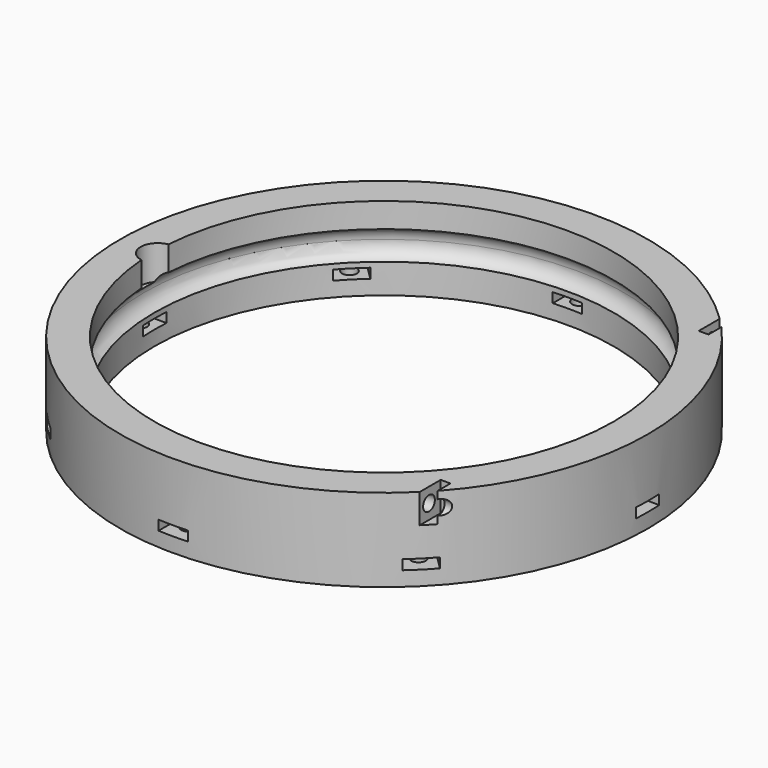
from build123d import *

# Parameters (mm, degrees)
BOX174_W                    = 2
BOX174_H                    = 6
BOX174_DEPTH                = 6
BOX175_W                    = 2
BOX175_H                    = 6
BOX175_DEPTH                = 6
BOX176_W                    = 2
BOX176_H                    = 6
BOX176_DEPTH                = 6
BOX173_W                    = 2
BOX173_H                    = 6
BOX173_DEPTH                = 6
CYLINDER397_R               = 1.5
CYLINDER397_DEPTH           = 100
CYLINDER398_R               = 1.5
CYLINDER398_DEPTH           = 100
CYLINDER395_R               = 1.5
CYLINDER395_DEPTH           = 100
CYLINDER396_R               = 1.5
CYLINDER396_DEPTH           = 100
CYLINDER375_R               = 1.5
CYLINDER375_DEPTH           = 50
CYLINDER375_PLACEMENT_ANGLE = 45
CYLINDER376_R               = 1.5
CYLINDER376_DEPTH           = 50
CYLINDER377_R               = 1.5
CYLINDER377_DEPTH           = 50
CYLINDER377_PLACEMENT_ANGLE = 135
CYLINDER378_R               = 1.5
CYLINDER378_DEPTH           = 50
CYLINDER379_R               = 1.5
CYLINDER379_DEPTH           = 50
CYLINDER379_PLACEMENT_ANGLE = 225
CYLINDER380_R               = 1.5
CYLINDER380_DEPTH           = 50
CYLINDER381_R               = 1.5
CYLINDER381_DEPTH           = 50
CYLINDER381_PLACEMENT_ANGLE = 45
CYLINDER374_R               = 1.5
CYLINDER374_DEPTH           = 50
BOX158_W                    = 8
BOX158_H                    = 6
BOX158_DEPTH                = 2
BOX158_PLACEMENT_ANGLE      = 45
BOX159_W                    = 8
BOX159_H                    = 6
BOX159_DEPTH                = 2
BOX160_W                    = 8
BOX160_H                    = 6
BOX160_DEPTH                = 2
BOX160_PLACEMENT_ANGLE      = 135
BOX161_W                    = 8
BOX161_H                    = 6
BOX161_DEPTH                = 2
BOX162_W                    = 8
BOX162_H                    = 6
BOX162_DEPTH                = 2
BOX162_PLACEMENT_ANGLE      = 225
BOX163_W                    = 8
BOX163_H                    = 6
BOX163_DEPTH                = 2
BOX164_W                    = 8
BOX164_H                    = 6
BOX164_DEPTH                = 2
BOX164_PLACEMENT_ANGLE      = 45
BOX157_W                    = 8
BOX157_H                    = 6
BOX157_DEPTH                = 2
CYLINDER006_R               = 3.5
CYLINDER006_DEPTH           = 10
TORUS004_R                  = 3.1
TUBE002_R                   = 54
TUBE002_R_2                 = 47
TUBE002_DEPTH               = 17


with BuildPart() as krychle174:
    # Box174 → Box174 (new body)
    with BuildSketch(Plane(origin=(32, -54, 22), x_dir=(1, 0, 0), z_dir=(0, 0, 1))):
        with Locations((1, 3)):
            Rectangle(BOX174_W, BOX174_H)
    extrude(amount=BOX174_DEPTH)


with BuildPart() as krychle175:
    # Box175 → Box175 (new body)
    with BuildSketch(Plane(origin=(38, 33, 31), x_dir=(1, 0, 0), z_dir=(0, 0, 1))):
        with Locations((1, 3)):
            Rectangle(BOX175_W, BOX175_H)
    extrude(amount=BOX175_DEPTH)


with BuildPart() as krychle176:
    # Box176 → Box176 (new body)
    with BuildSketch(Plane(origin=(38, -39, 31), x_dir=(1, 0, 0), z_dir=(0, 0, 1))):
        with Locations((1, 3)):
            Rectangle(BOX176_W, BOX176_H)
    extrude(amount=BOX176_DEPTH)


with BuildPart() as compound302:
    # Box173 → Box173 (new body)
    with BuildSketch(Plane(origin=(32, 48, 22), x_dir=(1, 0, 0), z_dir=(0, 0, 1))):
        with Locations((1, 3)):
            Rectangle(BOX173_W, BOX173_H)
    extrude(amount=BOX173_DEPTH)

    # Compound302: union Krychle174, Krychle175, Krychle176
    add(krychle174.part)
    add(krychle175.part)
    add(krychle176.part)


with BuildPart() as obj1:
    # Cylinder397 → Cylinder397 (new body)
    with BuildSketch(Plane(origin=(24, -51, 25), x_dir=(0, 0, -1), z_dir=(1, 0, 0))):
        Circle(CYLINDER397_R)
    extrude(amount=CYLINDER397_DEPTH)


with BuildPart() as obj2:
    # Cylinder398 → Cylinder398 (new body)
    with BuildSketch(Plane(origin=(34, 36, 34), x_dir=(0, 0, -1), z_dir=(1, 0, 0))):
        Circle(CYLINDER398_R)
    extrude(amount=CYLINDER398_DEPTH)


with BuildPart() as obj3:
    # Cylinder395 → Cylinder395 (new body)
    with BuildSketch(Plane(origin=(34, -36, 34), x_dir=(0, 0, -1), z_dir=(1, 0, 0))):
        Circle(CYLINDER395_R)
    extrude(amount=CYLINDER395_DEPTH)


with BuildPart() as compound303:
    # Cylinder396 → Cylinder396 (new body)
    with BuildSketch(Plane(origin=(24, 51, 25), x_dir=(0, 0, -1), z_dir=(1, 0, 0))):
        Circle(CYLINDER396_R)
    extrude(amount=CYLINDER396_DEPTH)

    # Compound303: union obj1, obj2, obj3
    add(obj1.part)
    add(obj2.part)
    add(obj3.part)


with BuildPart() as obj4:
    # Cylinder375 → Cylinder375 (new body)
    with BuildSketch(Plane.XY):
        Circle(CYLINDER375_R)
    extrude(amount=CYLINDER375_DEPTH)


with BuildPart() as obj4_1:
    # Cylinder375 placement: moved
    add(obj4.part.moved(Location((35.355339, 35.355339, -15))).rotate(Axis((35.355339, 35.355339, -15), (0, 0, 1)), CYLINDER375_PLACEMENT_ANGLE))


with BuildPart() as obj5:
    # Cylinder376 → Cylinder376 (new body)
    with BuildSketch(Plane(origin=(0, 50, -15), x_dir=(0, 1, 0), z_dir=(0, 0, 1))):
        Circle(CYLINDER376_R)
    extrude(amount=CYLINDER376_DEPTH)


with BuildPart() as obj6:
    # Cylinder377 → Cylinder377 (new body)
    with BuildSketch(Plane.XY):
        Circle(CYLINDER377_R)
    extrude(amount=CYLINDER377_DEPTH)


with BuildPart() as obj6_1:
    # Cylinder377 placement: moved
    add(obj6.part.moved(Location((-35.355339, 35.355339, -15))).rotate(Axis((-35.355339, 35.355339, -15), (0, 0, 1)), CYLINDER377_PLACEMENT_ANGLE))


with BuildPart() as obj7:
    # Cylinder378 → Cylinder378 (new body)
    with BuildSketch(Plane(origin=(-50, 0, -15), x_dir=(-1, 0, 0), z_dir=(0, 0, 1))):
        Circle(CYLINDER378_R)
    extrude(amount=CYLINDER378_DEPTH)


with BuildPart() as obj8:
    # Cylinder379 → Cylinder379 (new body)
    with BuildSketch(Plane.XY):
        Circle(CYLINDER379_R)
    extrude(amount=CYLINDER379_DEPTH)


with BuildPart() as obj8_1:
    # Cylinder379 placement: moved
    add(obj8.part.moved(Location((-35.355339, -35.355339, -15))).rotate(Axis((-35.355339, -35.355339, -15), (0, 0, 1)), CYLINDER379_PLACEMENT_ANGLE))


with BuildPart() as obj9:
    # Cylinder380 → Cylinder380 (new body)
    with BuildSketch(Plane(origin=(0, -50, -15), x_dir=(0, -1, 0), z_dir=(0, 0, 1))):
        Circle(CYLINDER380_R)
    extrude(amount=CYLINDER380_DEPTH)


with BuildPart() as obj10:
    # Cylinder381 → Cylinder381 (new body)
    with BuildSketch(Plane.XY):
        Circle(CYLINDER381_R)
    extrude(amount=CYLINDER381_DEPTH)


with BuildPart() as obj10_1:
    # Cylinder381 placement: moved
    add(obj10.part.moved(Location((35.355339, -35.355339, -15))).rotate(Axis((35.355339, -35.355339, -15), (0, 0, -1)), CYLINDER381_PLACEMENT_ANGLE))


with BuildPart() as compound298:
    # Cylinder374 → Cylinder374 (new body)
    with BuildSketch(Plane(origin=(50, 0, -15), x_dir=(1, 0, 0), z_dir=(0, 0, 1))):
        Circle(CYLINDER374_R)
    extrude(amount=CYLINDER374_DEPTH)

    # Compound298: union obj4, obj5, obj6, obj7, obj8, obj9, obj10
    add(obj4_1.part)
    add(obj5.part)
    add(obj6_1.part)
    add(obj7.part)
    add(obj8_1.part)
    add(obj9.part)
    add(obj10_1.part)


with BuildPart() as compound298_1:
    # Compound298 placement: moved
    add(compound298.part.moved(Location((0, 0, -9))))


with BuildPart() as krychle158:
    # Box158 → Box158 (new body)
    with BuildSketch(Plane.XY):
        with Locations((4, 3)):
            Rectangle(BOX158_W, BOX158_H)
    extrude(amount=BOX158_DEPTH)


with BuildPart() as krychle158_1:
    # Box158 placement: moved
    add(krychle158.part.moved(Location((34.648232, 30.405592, 23))).rotate(Axis((34.648232, 30.405592, 23), (0, 0, 1)), BOX158_PLACEMENT_ANGLE))


with BuildPart() as krychle159:
    # Box159 → Box159 (new body)
    with BuildSketch(Plane(origin=(3, 46, 23), x_dir=(0, 1, 0), z_dir=(0, 0, 1))):
        with Locations((4, 3)):
            Rectangle(BOX159_W, BOX159_H)
    extrude(amount=BOX159_DEPTH)


with BuildPart() as krychle160:
    # Box160 → Box160 (new body)
    with BuildSketch(Plane.XY):
        with Locations((4, 3)):
            Rectangle(BOX160_W, BOX160_H)
    extrude(amount=BOX160_DEPTH)


with BuildPart() as krychle160_1:
    # Box160 placement: moved
    add(krychle160.part.moved(Location((-30.405592, 34.648232, 23))).rotate(Axis((-30.405592, 34.648232, 23), (0, 0, 1)), BOX160_PLACEMENT_ANGLE))


with BuildPart() as krychle161:
    # Box161 → Box161 (new body)
    with BuildSketch(Plane(origin=(-46, 3, 23), x_dir=(-1, 0, 0), z_dir=(0, 0, 1))):
        with Locations((4, 3)):
            Rectangle(BOX161_W, BOX161_H)
    extrude(amount=BOX161_DEPTH)


with BuildPart() as krychle162:
    # Box162 → Box162 (new body)
    with BuildSketch(Plane.XY):
        with Locations((4, 3)):
            Rectangle(BOX162_W, BOX162_H)
    extrude(amount=BOX162_DEPTH)


with BuildPart() as krychle162_1:
    # Box162 placement: moved
    add(krychle162.part.moved(Location((-34.648232, -30.405592, 23))).rotate(Axis((-34.648232, -30.405592, 23), (0, 0, 1)), BOX162_PLACEMENT_ANGLE))


with BuildPart() as krychle163:
    # Box163 → Box163 (new body)
    with BuildSketch(Plane(origin=(-3, -46, 23), x_dir=(0, -1, 0), z_dir=(0, 0, 1))):
        with Locations((4, 3)):
            Rectangle(BOX163_W, BOX163_H)
    extrude(amount=BOX163_DEPTH)


with BuildPart() as krychle164:
    # Box164 → Box164 (new body)
    with BuildSketch(Plane.XY):
        with Locations((4, 3)):
            Rectangle(BOX164_W, BOX164_H)
    extrude(amount=BOX164_DEPTH)


with BuildPart() as krychle164_1:
    # Box164 placement: moved
    add(krychle164.part.moved(Location((30.405592, -34.648232, 23))).rotate(Axis((30.405592, -34.648232, 23), (0, 0, -1)), BOX164_PLACEMENT_ANGLE))


with BuildPart() as compound297:
    # Box157 → Box157 (new body)
    with BuildSketch(Plane(origin=(46, -3, 23), x_dir=(1, 0, 0), z_dir=(0, 0, 1))):
        with Locations((4, 3)):
            Rectangle(BOX157_W, BOX157_H)
    extrude(amount=BOX157_DEPTH)

    # Compound297: union Krychle158, Krychle159, Krychle160, Krychle161, Krychle162, Krychle163, Krychle164
    add(krychle158_1.part)
    add(krychle159.part)
    add(krychle160_1.part)
    add(krychle161.part)
    add(krychle162_1.part)
    add(krychle163.part)
    add(krychle164_1.part)


with BuildPart() as obj11:
    # Cylinder006 → Cylinder006 (new body)
    with BuildSketch(Plane(origin=(-46.3, 0, 30), x_dir=(1, 0, 0), z_dir=(0, 0, 1))):
        Circle(CYLINDER006_R)
    extrude(amount=CYLINDER006_DEPTH)


with BuildPart() as obj12:
    # Torus004 → Torus004 (revolve)
    with BuildSketch(Plane(origin=(0, 0, 29), x_dir=(1, 0, 0), z_dir=(0, -1, 0))):
        with Locations((46, 0)):
            Circle(TORUS004_R)
    revolve(axis=Axis((0, 0, 29), (0, 0, 1)))


with BuildPart() as cut160:
    # Tube002 → Tube002 (new body)
    with BuildSketch(Plane.XY.offset(20)):
        Circle(TUBE002_R)
        Circle(TUBE002_R_2, mode=Mode.SUBTRACT)
    extrude(amount=TUBE002_DEPTH)

    # Cut009: cut obj12
    add(obj12.part, mode=Mode.SUBTRACT)

    # Cut010: cut obj11
    add(obj11.part, mode=Mode.SUBTRACT)

    # Cut151: cut Compound297
    add(compound297.part, mode=Mode.SUBTRACT)

    # Cut152: cut Compound298
    add(compound298_1.part, mode=Mode.SUBTRACT)

    # Cut159: cut Compound303
    add(compound303.part, mode=Mode.SUBTRACT)

    # Cut160: cut Compound302
    add(compound302.part, mode=Mode.SUBTRACT)


solid = cut160.part
